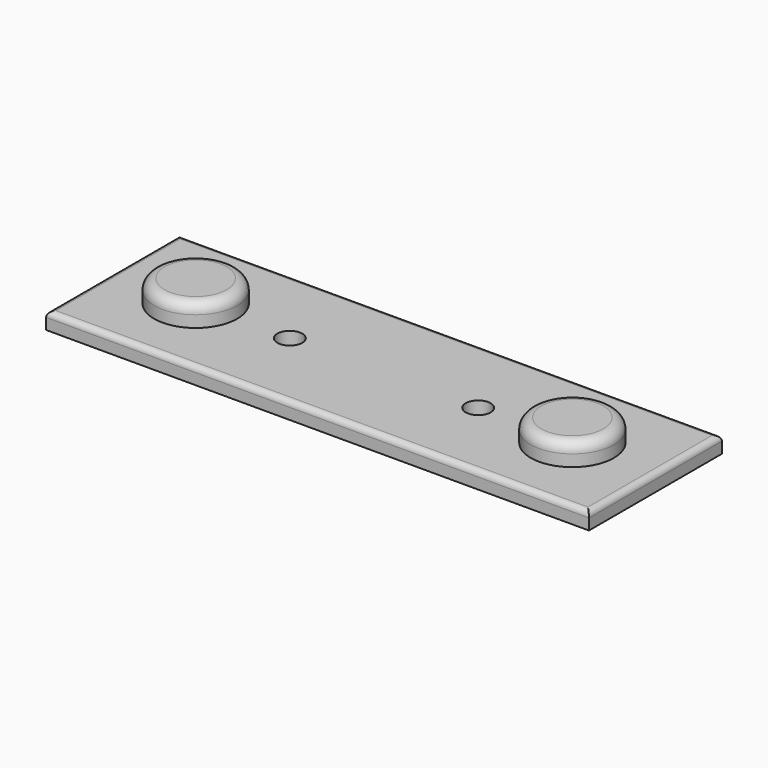
from build123d import *

# Parameters (mm, degrees)
F0_W     = 98
F0_H     = 30
F0_R     = 7.5
F0_R_2   = 2.25
F1_DEPTH = 3
F2_DEPTH = 4
F3_R     = 1.9
F4_R     = 1


with BuildPart() as f1:
    # F0 (on Top) → F1 (new body)
    with BuildSketch(Plane.XY):
        with Locations((49, 15)):
            Rectangle(F0_W, F0_H)
        with Locations((15, 15)):
            Circle(F0_R, mode=Mode.SUBTRACT)
        with Locations((32, 15)):
            Circle(F0_R_2, mode=Mode.SUBTRACT)
        with Locations((66, 15)):
            Circle(F0_R_2, mode=Mode.SUBTRACT)
        with Locations((83, 15)):
            Circle(F0_R, mode=Mode.SUBTRACT)
        with Locations((83, 15)):
            Circle(F0_R)
        with Locations((15, 15)):
            Circle(F0_R)
    extrude(amount=-F1_DEPTH)

    # F0 (on Top) → F2 (join)
    with BuildSketch(Plane.XY):
        with Locations((15, 15)):
            Circle(F0_R)
        with Locations((83, 15)):
            Circle(F0_R)
    extrude(amount=F2_DEPTH)

    # F3
    f3_edges = [f1.edges().sort_by_distance(p)[0] for p in [
        (7.5, 15, 4),
        (75.5, 15, 4),
    ]]
    fillet(f3_edges, radius=F3_R)

    # F4
    f4_edges = [f1.edges().sort_by_distance(p)[0] for p in [
        (49, 30, 0),
        (0, 15, 0),
        (98, 15, 0),
        (49, 0, 0),
    ]]
    fillet(f4_edges, radius=F4_R)


solid = f1.part
